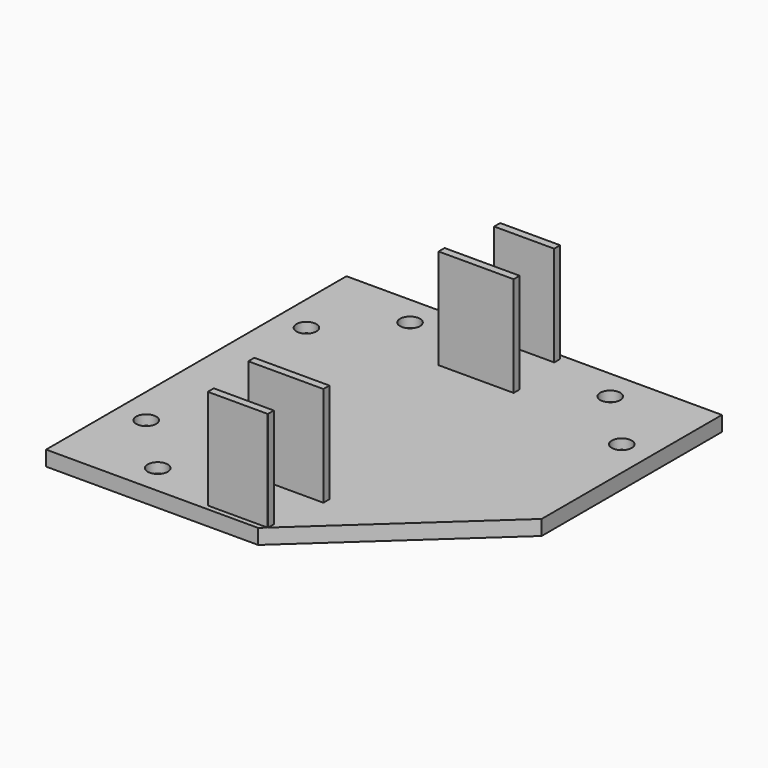
from build123d import *

# Parameters (mm, degrees)
F0_W      = 75
F0_H      = 75
F1_DEPTH  = 3
F2_R      = 2
F3_DEPTH  = 2
F4_R      = 1.25
F5_DEPTH  = 1.001
F6_W      = 15
F6_H      = 1.5
F7_DEPTH  = 20
F8_W      = 12
F8_H      = 1.5
F9_DEPTH  = 20
F10_R     = 1.25
F11_DEPTH = 23.001


with BuildPart() as f1:
    # F0 (on Top) → F1 (new body)
    with BuildSketch(Plane.XY):
        Rectangle(F0_W, F0_H)
    extrude(amount=F1_DEPTH)

    # F2 (on face) → F3 (cut)
    with BuildSketch(Plane.XY.offset(3)):
        with Locations((31.5, -20)):
            Circle(F2_R)
        with Locations((20, -31.5)):
            Circle(F2_R)
        with Locations((31.5, 20)):
            Circle(F2_R)
        with Locations((20, 31.5)):
            Circle(F2_R)
        with Locations((-20, 31.5)):
            Circle(F2_R)
        with Locations((-31.5, 20)):
            Circle(F2_R)
        with Locations((-20, -31.5)):
            Circle(F2_R)
        with Locations((-31.5, -20)):
            Circle(F2_R)
    extrude(amount=-F3_DEPTH, mode=Mode.SUBTRACT)

    # F4 (on face) → F5 (cut, through all)
    with BuildSketch(Plane.XY.offset(1)):
        with Locations((-31.5, 20)):
            Circle(F4_R)
        with Locations((-20, 31.5)):
            Circle(F4_R)
        with Locations((20, 31.5)):
            Circle(F4_R)
        with Locations((31.5, 20)):
            Circle(F4_R)
        with Locations((-31.5, -20)):
            Circle(F4_R)
        with Locations((31.5, -20)):
            Circle(F4_R)
        with Locations((20, -31.5)):
            Circle(F4_R)
        with Locations((-20, -31.5)):
            Circle(F4_R)
    extrude(amount=-F5_DEPTH, mode=Mode.SUBTRACT)

    # F6 (on face) → F7 (join)
    with BuildSketch(Plane.XY.offset(3)):
        with Locations((0, -23.75)):
            Rectangle(F6_W, F6_H)
        with Locations((0, 23.75)):
            Rectangle(F6_W, F6_H)
    extrude(amount=F7_DEPTH)

    # F8 (on face) → F9 (join)
    with BuildSketch(Plane.XY.offset(3)):
        with Locations((0, -35.75)):
            Rectangle(F8_W, F8_H)
        with Locations((0, 35.75)):
            Rectangle(F8_W, F8_H)
    extrude(amount=F9_DEPTH)

    # F10 (on face) → F11 (cut, through all)
    with BuildSketch(Plane(origin=(0, 0, 0), x_dir=(1, 0, 0), z_dir=(0, 0, -1))):
        Polygon((37.5, 37.5), (4.855387, 37.5), (37.5, 7.5), align=None)
        Polygon((37.5, 37.5), (4.855387, 37.5), (37.5, 7.5), align=None)
        with Locations((31.5, 20)):
            Circle(F10_R, mode=Mode.SUBTRACT)
        with Locations((20, 31.5)):
            Circle(F10_R, mode=Mode.SUBTRACT)
    extrude(amount=-F11_DEPTH, mode=Mode.SUBTRACT)


solid = f1.part
